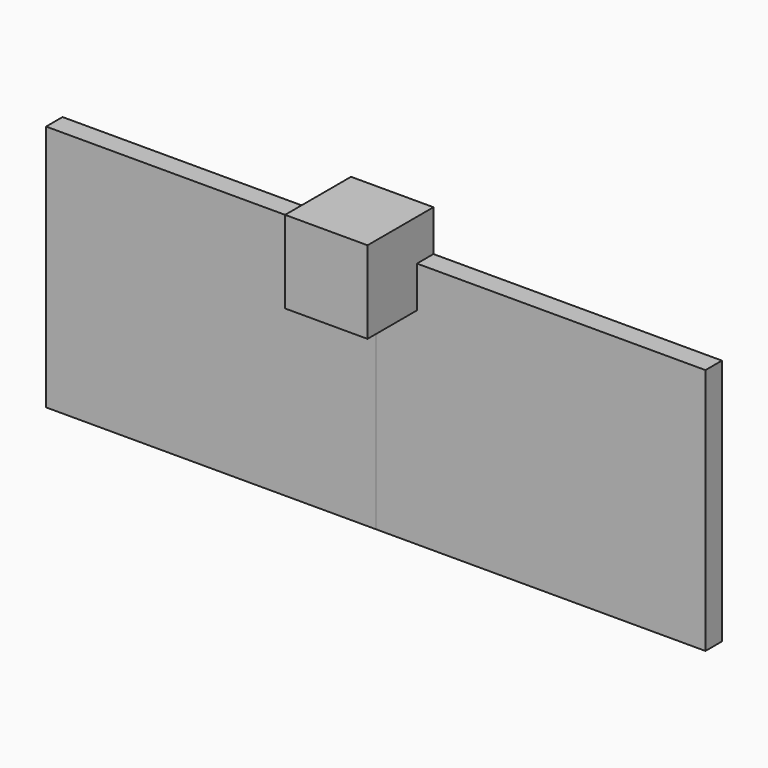
from build123d import *

# Parameters (mm, degrees)
F2_W     = 101.6
F2_H     = 76.2
F3_DEPTH = 6.35
F1_W     = 101.6
F1_H     = 76.2
F0_W     = 25.4
F0_H     = 25.4
F4_DEPTH = 25.4


with BuildPart() as f3:
    # F2 (on Front) → F3 (new body)
    with BuildSketch(Plane.XZ):
        with Locations((-50.8, -38.1)):
            Rectangle(F2_W, F2_H)
    extrude(amount=F3_DEPTH)


with BuildPart() as f3b:
    # F1 (on Front) → F3, piece 2 (new body)
    with BuildSketch(Plane.XZ):
        with Locations((50.8, -38.1)):
            Rectangle(F1_W, F1_H)
    extrude(amount=F3_DEPTH)


with BuildPart() as f4:
    # F0 (on Front) → F4 (new body)
    with BuildSketch(Plane.XZ):
        Rectangle(F0_W, F0_H)
    extrude(amount=F4_DEPTH)


solid = Compound([f3.part, f3b.part, f4.part])
